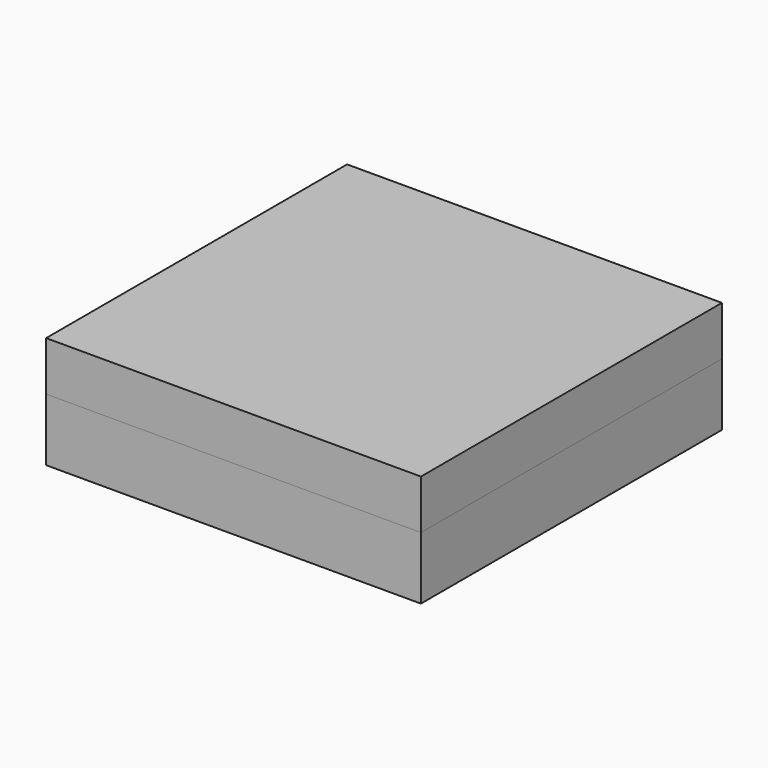
from build123d import *

# Parameters (mm, degrees)
F1_W     = 152.1134674549
F1_H     = 152.6828706264
F2_DEPTH = 20
F0_W     = 151.7293900251
F0_H     = 152.1038264036
F3_DEPTH = 25.4


with BuildPart() as f2:
    # F1 (on face) → F2 (new body)
    with BuildSketch(Plane.XY):
        Rectangle(F1_W, F1_H)
    extrude(amount=F2_DEPTH)


with BuildPart() as f2b:
    # F0 (on Top) → F2, piece 2 (new body)
    with BuildSketch(Plane.XY):
        Rectangle(F0_W, F0_H)
    extrude(amount=F2_DEPTH)


with BuildPart() as f3:
    # F3 (new): a face of the model
    f3_faces = [f2.part.faces().sort_by_distance(p)[0] for p in [
        (0, 0, 0),
    ]]
    extrude(f3_faces, amount=F3_DEPTH)


solid = Compound([f2.part, f2b.part, f3.part])
